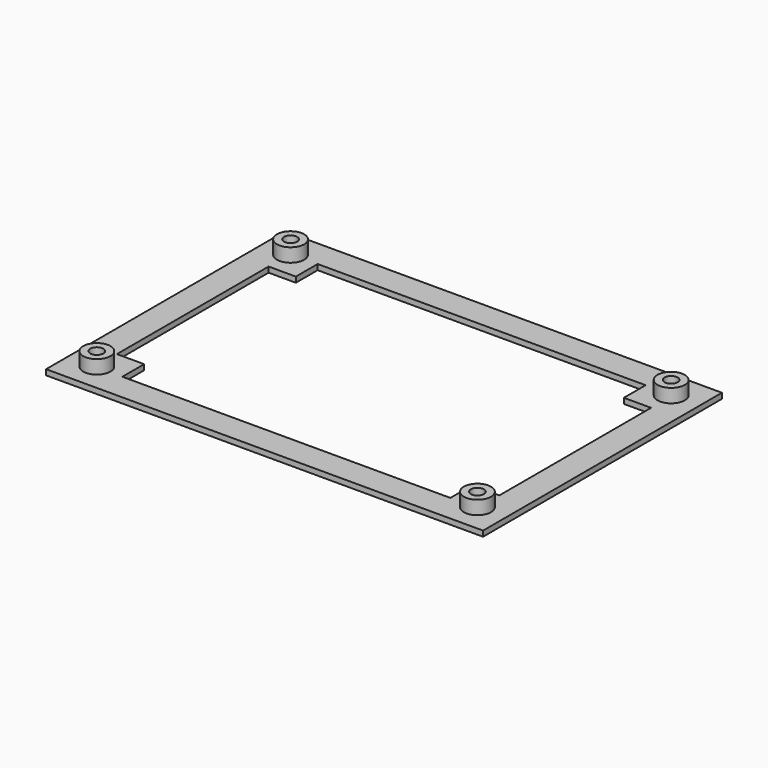
from build123d import *

# Parameters (mm, degrees)
SKETCH_W        = 80.2
SKETCH_H        = 54.8
PAD_DEPTH       = 1
POCKET_DEPTH    = 1.001
SKETCH002_R     = 2.5
PAD001_DEPTH    = 2.5
SKETCH003_R     = 1.2
POCKET001_DEPTH = 2.5


with BuildPart() as part:
    # Sketch → Pad (new body)
    with BuildSketch(Plane.XY):
        Rectangle(SKETCH_W, SKETCH_H)
    extrude(amount=PAD_DEPTH)

    # Sketch001 → Pocket (cut, through all)
    with BuildSketch(Plane.XY.offset(1)):
        Polygon((-35.1, 17.4), (-35.1, -17.4), (-30.1, -17.4), (-30.1, -22.4), (30.1, -22.4), (30.1, -17.4), (35.1, -17.4), (35.1, 17.4), (30.1, 17.4), (30.1, 22.4), (-30.1, 22.4), (-30.1, 17.4), align=None)
    extrude(amount=-POCKET_DEPTH, mode=Mode.SUBTRACT)

    # Sketch002 → Pad001 (new body)
    with BuildSketch(Plane.XY.offset(1)):
        with Locations((-34.925, 22.225)):
            Circle(SKETCH002_R)
        with Locations((-34.925, -22.225)):
            Circle(SKETCH002_R)
        with Locations((34.925, 22.225)):
            Circle(SKETCH002_R)
        with Locations((34.925, -22.225)):
            Circle(SKETCH002_R)
    extrude(amount=PAD001_DEPTH)

    # Sketch003 → Pocket001 (cut)
    with BuildSketch(Plane.XY.offset(3.5)):
        with Locations((-34.925, -22.225)):
            Circle(SKETCH003_R)
        with Locations((34.925, -22.225)):
            Circle(SKETCH003_R)
        with Locations((-34.925, 22.225)):
            Circle(SKETCH003_R)
        with Locations((34.925, 22.225)):
            Circle(SKETCH003_R)
    extrude(amount=-POCKET001_DEPTH, mode=Mode.SUBTRACT)


solid = part.part
